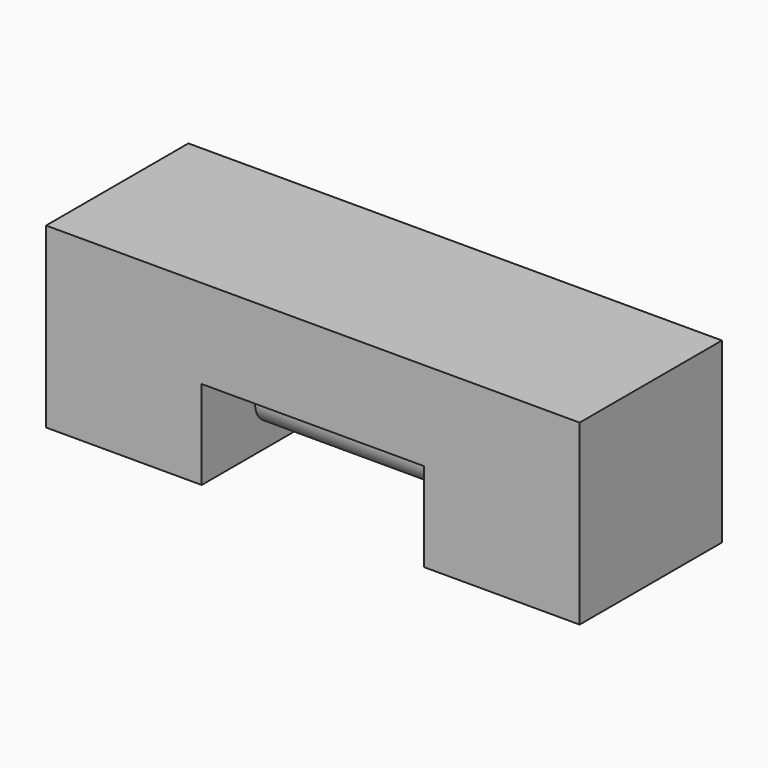
from build123d import *

# Parameters (mm, degrees)
F0_W     = 40
F0_H     = 40
F1_DEPTH = 60
F2_W     = 50
F2_H     = 20
F3_DEPTH = 40.001
F4_R     = 5
F5_DEPTH = 25


with BuildPart() as f1:
    # F0 (on Right) → F1 (new body, symmetric)
    with BuildSketch(Plane.YZ):
        Rectangle(F0_W, F0_H)
    extrude(amount=F1_DEPTH, both=True)

    # F2 (on face) → F3 (cut, through all)
    with BuildSketch(Plane.XZ.offset(20)):
        with Locations((0, -10)):
            Rectangle(F2_W, F2_H)
    extrude(amount=-F3_DEPTH, mode=Mode.SUBTRACT)

    # F4 (on Right) → F5 (join, symmetric)
    with BuildSketch(Plane.YZ):
        with Locations((0, -10)):
            Circle(F4_R)
    extrude(amount=F5_DEPTH, both=True)


solid = f1.part
